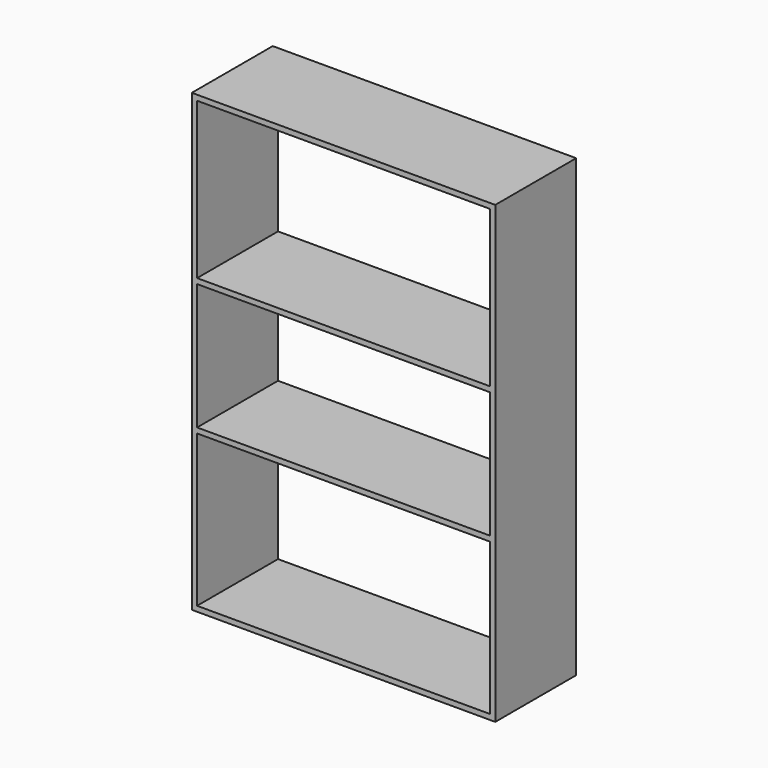
from build123d import *

# Parameters (mm, degrees)
F0_W     = 914.4
F0_H     = 1371.6
F0_W_2   = 882.65
F0_H_2   = 15.875
F1_DEPTH = 304.8


with BuildPart() as f1:
    # F0 (on Front) → F1 (new body)
    with BuildSketch(Plane.XZ):
        with Locations((-312.704903, -42.06069)):
            Rectangle(F0_W, F0_H)
        Polygon((-754.029903, 157.32931), (-754.029903, 627.86431), (128.620097, 627.86431), (128.620097, 157.32931), (128.620097, 141.45431), (128.620097, -238.91069), (128.620097, -254.78569), (128.620097, -711.98569), (-754.029903, -711.98569), (-754.029903, -254.78569), (-754.029903, -238.91069), (-754.029903, 141.45431), align=None, mode=Mode.SUBTRACT)
        with Locations((-312.704903, 149.39181)):
            Rectangle(F0_W_2, F0_H_2)
        with Locations((-312.704903, -246.84819)):
            Rectangle(F0_W_2, F0_H_2)
    extrude(amount=F1_DEPTH)


solid = f1.part
